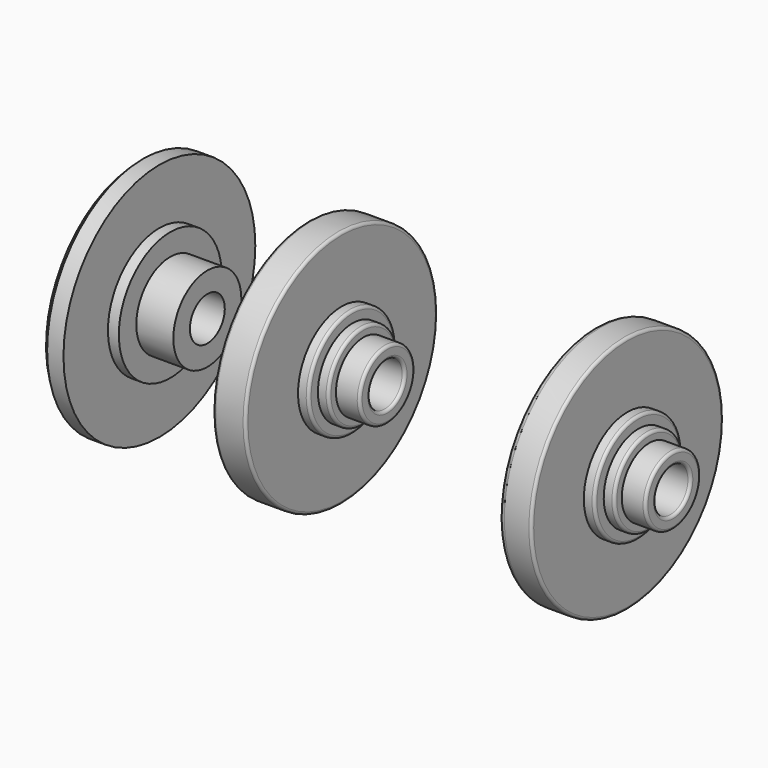
from build123d import *


with BuildPart() as f1:
    # F0 (on Front) → F1 (revolve)
    with BuildSketch(Plane.XZ):
        Polygon((0, 10.5), (0, 0), (2.3, 0), (2.3, 2), (6.4, 2), (6.4, 3.9), (3, 3.9), (3, 5.9), (2, 5.9), (2, 11), (0.5, 11), align=None)
    revolve(axis=Axis((1.15, 0, 0), (-1, 0, 0)))


with BuildPart() as f4:
    # F2 (on Front) → F4 (revolve)
    with BuildSketch(Plane.XZ):
        with BuildLine():
            Line((18.720809, 5), (18.720809, 10.75))
            ThreePointArc((18.720809, 10.75), (18.647586, 10.926777), (18.470809, 11))
            Line((18.470809, 11), (15.970809, 11))
            ThreePointArc((15.970809, 11), (15.794033, 10.926777), (15.720809, 10.75))
            Line((15.720809, 10.75), (15.720809, 10.25))
            ThreePointArc((15.720809, 10.25), (15.794033, 10.073223), (15.970809, 10))
            Line((15.970809, 10), (16.720809, 10))
            Line((16.720809, 10), (16.720809, 0))
            Line((16.720809, 0), (18.220809, 0))
            Line((18.220809, 0), (18.220809, 2))
            Line((18.220809, 2), (22.670809, 2))
            ThreePointArc((22.670809, 2), (22.847586, 2.073223), (22.920809, 2.25))
            Line((22.920809, 2.25), (22.920809, 2.9))
            ThreePointArc((22.920809, 2.9), (22.847586, 3.076777), (22.670809, 3.15))
            Line((22.670809, 3.15), (20.720809, 3.15))
            Line((20.720809, 3.15), (20.720809, 3.72))
            ThreePointArc((20.720809, 3.72), (20.647586, 3.896777), (20.470809, 3.97))
            Line((20.470809, 3.97), (19.720809, 3.97))
            Line((19.720809, 3.97), (19.720809, 4.75))
            ThreePointArc((19.720809, 4.75), (19.647586, 4.926777), (19.470809, 5))
            Line((19.470809, 5), (18.720809, 5))
        make_face()
    revolve(axis=Axis((17.470809, 0, 0), (1, 0, 0)))


with BuildPart() as f5:
    # F3 (on Front) → F5 (revolve)
    with BuildSketch(Plane.XZ):
        with BuildLine():
            Line((44.943741, 5), (44.943741, 10.75))
            ThreePointArc((44.943741, 10.75), (44.870518, 10.926777), (44.693741, 11))
            Line((44.693741, 11), (42.443741, 11))
            ThreePointArc((42.443741, 11), (42.090188, 10.853553), (41.943741, 10.5))
            add(Edge.make_bspline(
                [(41.943741, 10.5), (41.943741, 9.729977), (42.443741, 0.516652), (42.443741, 0)],
                knots=[0, 0, 0, 0, 10.511898, 10.511898, 10.511898, 10.511898], degree=3))
            Line((42.443741, 0), (44.143741, 0))
            Line((44.143741, 0), (44.143741, 2))
            Line((44.143741, 2), (48.893741, 2))
            ThreePointArc((48.893741, 2), (49.070518, 2.073223), (49.143741, 2.25))
            Line((49.143741, 2.25), (49.143741, 2.9))
            ThreePointArc((49.143741, 2.9), (49.070518, 3.076777), (48.893741, 3.15))
            Line((48.893741, 3.15), (46.943741, 3.15))
            Line((46.943741, 3.15), (46.943741, 3.72))
            ThreePointArc((46.943741, 3.72), (46.870518, 3.896777), (46.693741, 3.97))
            Line((46.693741, 3.97), (45.943741, 3.97))
            Line((45.943741, 3.97), (45.943741, 4.75))
            ThreePointArc((45.943741, 4.75), (45.870518, 4.926777), (45.693741, 5))
            Line((45.693741, 5), (44.943741, 5))
        make_face()
    revolve(axis=Axis((43.293741, 0, 0), (-1, 0, 0)))


solid = Compound([f1.part, f4.part, f5.part])
